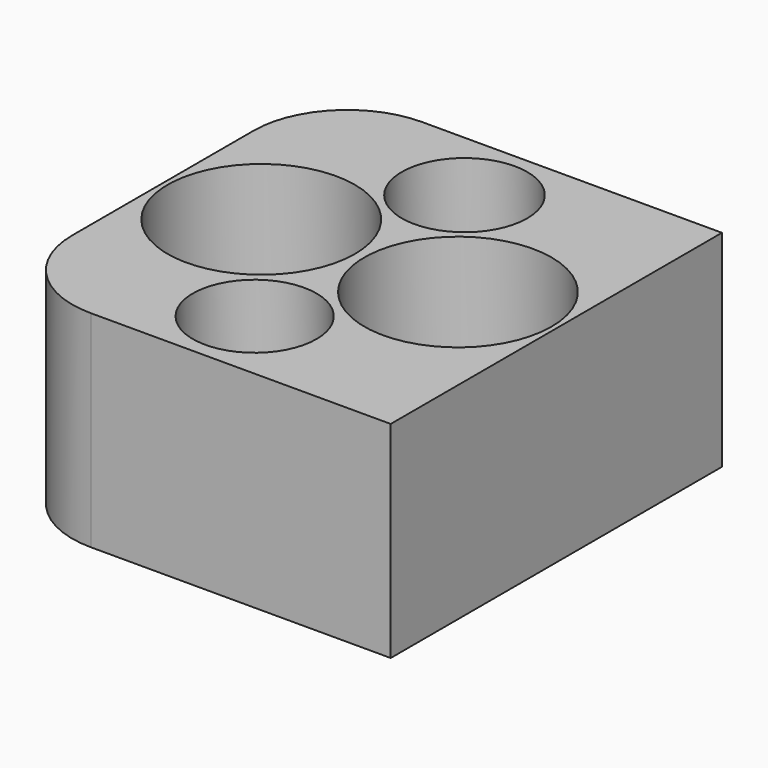
from build123d import *

# Parameters (mm, degrees)
F0_W     = 21
F0_H     = 22.1
F1_DEPTH = 11
F2_R     = 1.75
F3_DEPTH = 25
F2_R_2   = 3.35
F2_R_3   = 3.3
F4_DEPTH = 3.5
F6_R     = 5
F5_R     = 5
F7_DEPTH = 25


with BuildPart() as f1:
    # F0 (on Top) → F1 (new body)
    with BuildSketch(Plane.XY):
        with Locations((10.5, 11.05)):
            Rectangle(F0_W, F0_H)
    extrude(amount=F1_DEPTH)

    # F2 (on face) → F3 (cut)
    with BuildSketch(Plane.XY.offset(11)):
        with Locations((10.5, 18.05)):
            Circle(F2_R)
        with Locations((10.5, 4.05)):
            Circle(F2_R)
    extrude(amount=-F3_DEPTH, mode=Mode.SUBTRACT)

    # F2 (on face) → F4 (cut)
    with BuildSketch(Plane.XY.offset(11)):
        with Locations((10.5, 18.05)):
            Circle(F2_R_2)
        with Locations((10.5, 18.05)):
            Circle(F2_R, mode=Mode.SUBTRACT)
        with Locations((10.5, 4.05)):
            Circle(F2_R_3)
        with Locations((10.5, 4.05)):
            Circle(F2_R, mode=Mode.SUBTRACT)
    extrude(amount=-F4_DEPTH, mode=Mode.SUBTRACT)

    # F6
    f6_edges = [f1.edges().sort_by_distance(p)[0] for p in [
        (0, 22.1, 5.5),
        (0, 0, 5.5),
    ]]
    fillet(f6_edges, radius=F6_R)

    # F5 (on face) → F7 (cut)
    with BuildSketch(Plane.XY.offset(11)):
        with Locations((5.25, 11.05)):
            Circle(F5_R)
        with Locations((15.75, 11.05)):
            Circle(F5_R)
    extrude(amount=-F7_DEPTH, mode=Mode.SUBTRACT)


solid = f1.part
